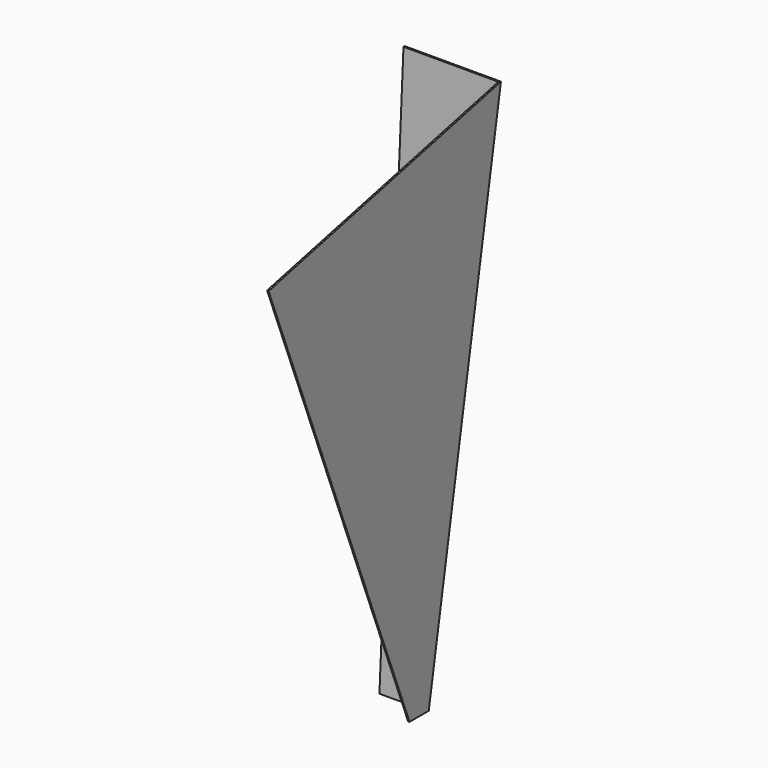
from build123d import *

# Parameters (mm, degrees)
F1_DEPTH = 3.175
F3_DEPTH = 609.6
F5_DEPTH = 1211.58
F7_DEPTH = 25.4


with BuildPart() as f1:
    # F0 (on Front) → F1 (new body)
    with BuildSketch(Plane.XZ):
        Polygon((50.8, -609.6), (203.2, 609.6), (0, 609.6), (0, -609.6), align=None)
        Polygon((0, -609.6), (0, 609.6), (-203.2, 609.6), (-50.8, -609.6), align=None)
    extrude(amount=F1_DEPTH)

    # F2 (on face) → F3 (join)
    with BuildSketch(Plane.XZ.offset(3.175)):
        Polygon((47.6495177414, -609.2061897177), (50.8, -609.6), (203.2, 609.6), (200.0002914561, 609.6), align=None)
    extrude(amount=F3_DEPTH)

    # F4 (on face) → F5 (cut)
    with BuildSketch(Plane(origin=(125.0461538462, 0, -15.6307692308), x_dir=(0, 1, 0), z_dir=(0.9922778767, 0, -0.1240347346))):
        Polygon((-588.8283837058, 472.3203618187), (0, 630.0964517132), (0, 731.3741445541), (-712.4527692795, 731.3741445541), (-712.4527692795, -900.0895023346), (-50.8, -900.0895023346), (-50.8, -598.5916291275), align=None)
    extrude(amount=-F5_DEPTH, mode=Mode.SUBTRACT)

    # F6 (on face) → F7 (cut)
    with BuildSketch(Plane.XZ.offset(3.175)):
        Polygon((-203.2, 609.6), (-50.8, -609.6), (0, 609.6), align=None)
    extrude(amount=-F7_DEPTH, mode=Mode.SUBTRACT)


solid = f1.part
